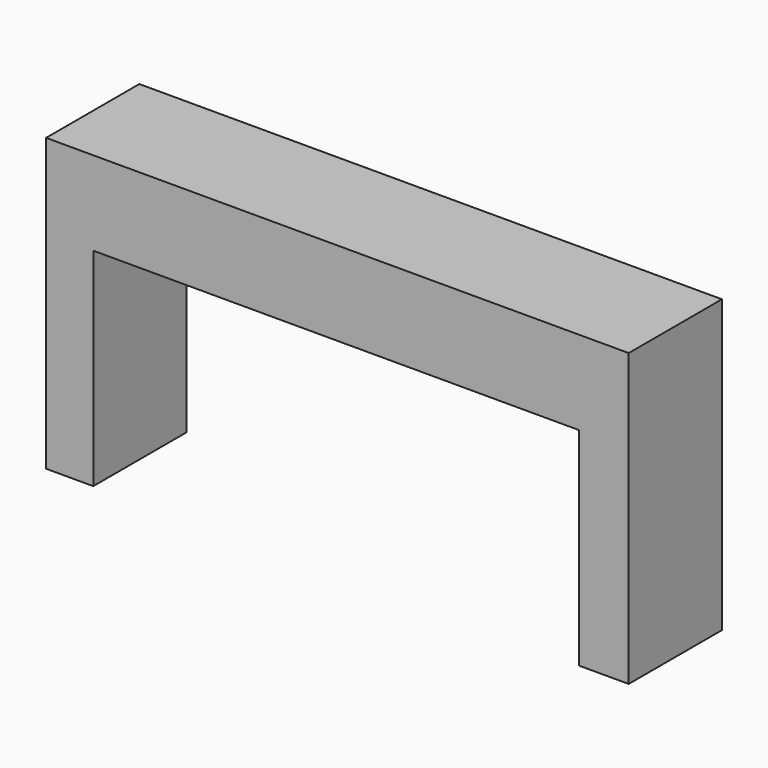
from build123d import *

# Parameters (mm, degrees)
F0_W     = 50
F0_H     = 10
F1_DEPTH = 25
F2_W     = 41.691179
F2_H     = 17.792447
F3_DEPTH = 10.001


with BuildPart() as f1:
    # F0 (on Top) → F1 (new body)
    with BuildSketch(Plane.XY):
        Rectangle(F0_W, F0_H)
    extrude(amount=F1_DEPTH)

    # F2 (on face) → F3 (cut, through all)
    with BuildSketch(Plane.XZ.offset(5)):
        with Locations((-0.105282, 8.896223)):
            Rectangle(F2_W, F2_H)
    extrude(amount=-F3_DEPTH, mode=Mode.SUBTRACT)


solid = f1.part
